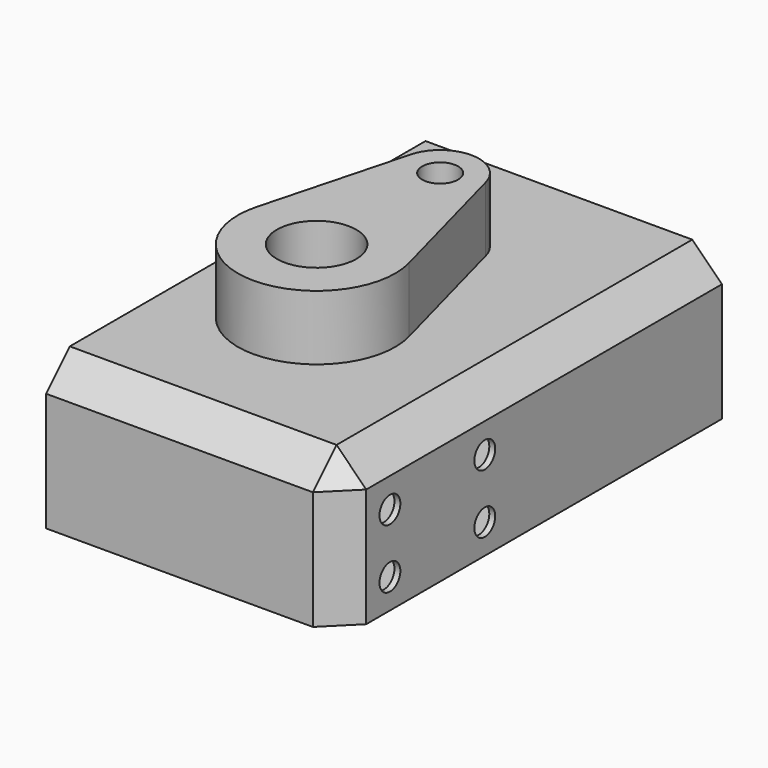
from build123d import *

# Parameters (mm, degrees)
F0_W     = 50
F0_H     = 80
F7_DEPTH = 25
F1_SIZE  = 5
F2_T     = -1
F3_R     = 6.6975560133
F3_R_2   = 3.0346294706
F4_DEPTH = 10.92156
F6_D     = 4.4


with BuildPart() as f7:
    # F0 (on Top) → F7 (new body)
    with BuildSketch(Plane.XY):
        with Locations((25, 40)):
            Rectangle(F0_W, F0_H)
    extrude(amount=F7_DEPTH)

    # F1
    f1_edges = [f7.edges().sort_by_distance(p)[0] for p in [
        (50, 0, 12.5),
        (50, 40, 25),
        (25, 0, 25),
    ]]
    chamfer(f1_edges, length=F1_SIZE)

    # F2
    f2_openings = [f7.faces().sort_by_distance(p)[0] for p in [
        (0, 40.24109, 12.431866),
        (24.76431, 80, 12.390572),
    ]]
    offset(amount=F2_T, openings=f2_openings)

    # F3 (on face) → F4 (join)
    with BuildSketch(Plane.XY.offset(25)):
        with BuildLine():
            Line((33.1360828131, 35.084836185), (26.6411228282, 59.4008081287))
            ThreePointArc((26.6411228282, 59.4008081287), (20.3049834818, 64.2666572246), (13.9688441353, 59.4008081287))
            Line((13.9688441353, 59.4008081287), (7.4738841504, 35.084836185))
            ThreePointArc((7.4738841504, 35.084836185), (20.3049834818, 18.3766251965), (33.1360828131, 35.084836185))
        make_face()
        with Locations((20.3049834818, 31.6575630777)):
            Circle(F3_R, mode=Mode.SUBTRACT)
        with Locations((20.3049834818, 57.7083826065)):
            Circle(F3_R_2, mode=Mode.SUBTRACT)
    extrude(amount=F4_DEPTH)

    # F6 (through all)
    with Locations(Plane.YZ.offset(50)):
        with Locations((10, 15), (30, 15), (30, 5), (10, 5)):
            Hole(F6_D / 2)


solid = f7.part
